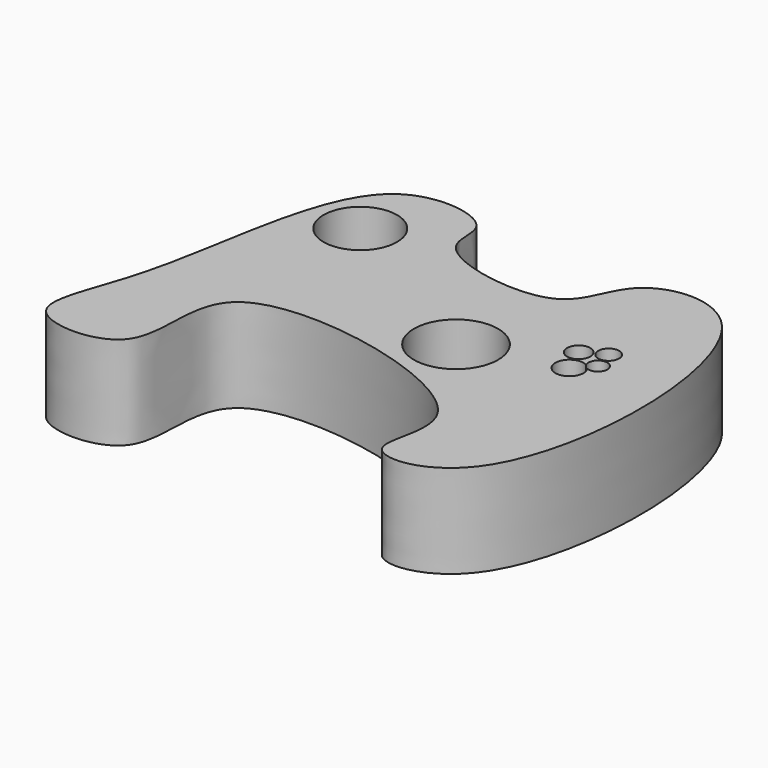
from build123d import *

# Parameters (mm, degrees)
F0_R     = 11.4483559542
F0_R_2   = 9.9904067713
F0_R_3   = 3.1676643285
F0_R_4   = 2.8465333147
F1_DEPTH = 25.4


with BuildPart() as f1:
    # F0 (on Top) → F1 (new body)
    with BuildSketch(Plane.XY):
        with BuildLine():
            add(Edge.make_bspline(
                [(-54.8299439251, -31.7358113825), (-49.3171143766, -10.8521902649), (-48.0880956212, 38.1569588155), (-7.9708466575, 31.7860410234), (-16.3596486333, 14.2850586434), (26.9420739022, 6.3891689433), (26.9238110162, 31.9845838932), (70.2602317963, 36.5449440017), (70.2214388213, -65.8321614231), (26.7787763841, -68.404000776), (49.8843625869, -35.4819346184), (-47.4288063836, -14.1520760547), (-28.4669666416, -64.2223074096), (-69.2285833897, -63.3717389644), (-58.5001792862, -45.6393438638), (-54.8299439251, -31.7358113825)],
                knots=[0, 0, 0, 0, 0.1101362161, 0.1756658027, 0.2216043031, 0.2987541574, 0.3577453303, 0.4263728768, 0.5523565104, 0.6158206111, 0.6773680912, 0.7894961228, 0.8637165469, 0.9266754338, 1, 1, 1, 1], degree=3))
        make_face()
        with Locations((17.5813399255, -16.5383797139)):
            Circle(F0_R, mode=Mode.SUBTRACT)
        with Locations((-31.586818397, 12.3665360734)):
            Circle(F0_R_2, mode=Mode.SUBTRACT)
        with Locations((40.2284935117, -3.1288827304)):
            Circle(F0_R_3, mode=Mode.SUBTRACT)
        with BuildLine():
            ThreePointArc((45.0888683094, -6.6620048536), (46.7897381416, -3.0183343028), (49.943619665, -5.5127930827))
            ThreePointArc((49.943619665, -5.5127930827), (48.8009117709, -7.6464856308), (46.3915783464, -7.8778677177))
            ThreePointArc((46.3915783464, -7.8778677177), (46.8628443374, -8.8836952504), (47.0244981923, -9.9826259539))
            ThreePointArc((47.0244981923, -9.9826259539), (39.9114918985, -11.904421178), (45.0888683094, -6.6620048536))
        make_face(mode=Mode.SUBTRACT)
        with Locations((45.8902791142, 0)):
            Circle(F0_R_4, mode=Mode.SUBTRACT)
    extrude(amount=F1_DEPTH)


solid = f1.part
